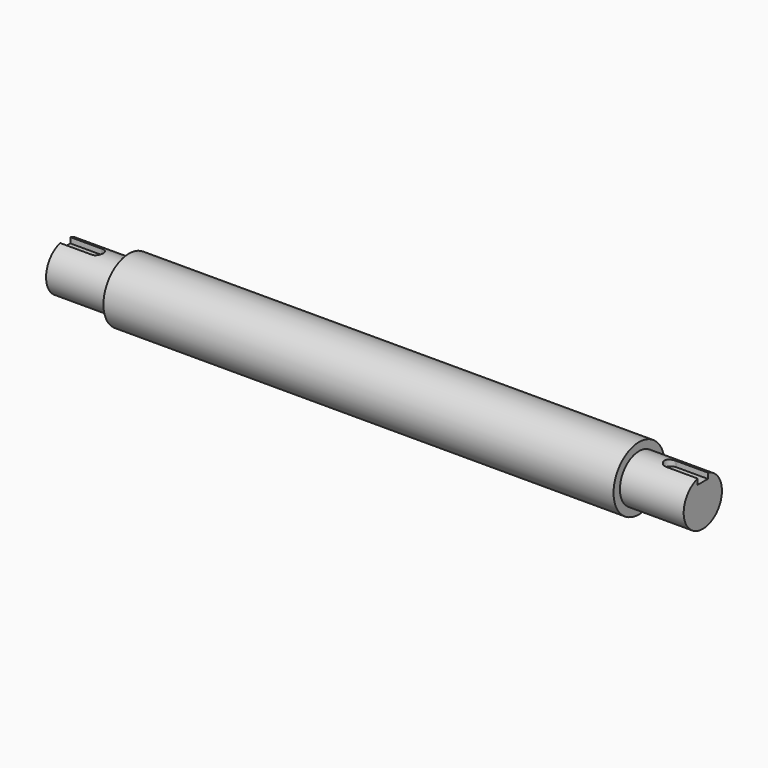
from build123d import *

# Parameters (mm, degrees)
F4_DEPTH = 10


with BuildPart() as f1:
    # F0 (on Front) → F1 (revolve)
    with BuildSketch(Plane.XZ):
        Polygon((-500, 37.5), (-500, 0), (500, 0), (500, 37.5), (400, 37.5), (400, 50), (-400, 50), (-400, 37.5), align=None)
    revolve(axis=Axis((0, 0, 0), (1, 0, 0)))

    # F3 (on offset) → F4 (cut)
    with BuildSketch(Plane.XY.offset(37.5)):
        with BuildLine():
            Line((-450, 10), (-500, 10))
            Line((-500, 10), (-500, -10))
            Line((-500, -10), (-450, -10))
            ThreePointArc((-450, -10), (-440, 0), (-450, 10))
        make_face()
        with BuildLine():
            ThreePointArc((450, 10), (440, 0), (450, -10))
            Line((450, -10), (500, -10))
            Line((500, -10), (500, 10))
            Line((500, 10), (450, 10))
        make_face()
    extrude(amount=-F4_DEPTH, mode=Mode.SUBTRACT)


solid = f1.part
